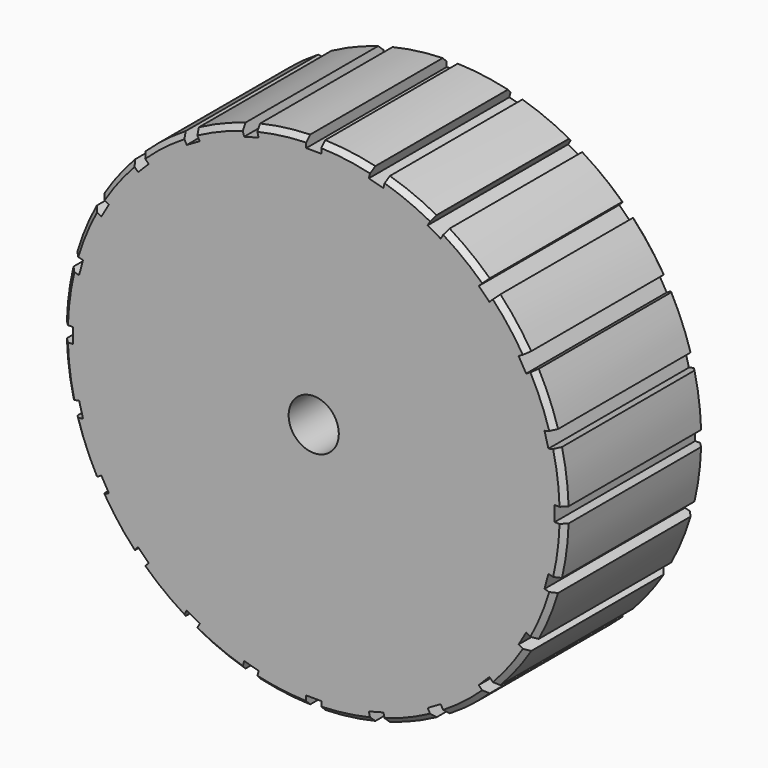
from build123d import *

# Parameters (mm, degrees)
F0_R          = 500
F0_R_2        = 50
F1_DEPTH      = 350
F2_W          = 30
F2_H          = 20
F2_W_2        = 20
F2_H_2        = 30
F4_DEPTH      = 1000
F4_DEPTH_BACK = 350
F6_R          = 100
F6_R_2        = 80
F7_DEPTH      = 20
F8_SIZE       = 10
F9_SIZE       = 10


with BuildPart() as f1:
    # F0 (on Front) → F1 (new body)
    with BuildSketch(Plane.XZ):
        Circle(F0_R)
        Circle(F0_R_2, mode=Mode.SUBTRACT)
    extrude(amount=F1_DEPTH)

    # F2 (on Front) → F4 (cut, two sides)
    with BuildSketch(Plane.XZ) as f4_sk:
        with Locations((0, 490)):
            Rectangle(F2_W, F2_H)
        Polygon((-114.920635, 486.845199), (-143.89841, 479.080627), (-138.722029, 459.762111), (-109.744254, 467.526682), align=None)
        Polygon((-237.009619, 440.512702), (-262.990381, 425.512702), (-252.990381, 408.192194), (-227.009619, 423.192194), align=None)
        Polygon((-342.946789, 364.159992), (-364.159992, 342.946789), (-350.017857, 328.804653), (-328.804653, 350.017857), align=None)
        Polygon((-425.512702, 262.990381), (-440.512702, 237.009619), (-423.192194, 227.009619), (-408.192194, 252.990381), align=None)
        Polygon((-479.080627, 143.89841), (-486.845199, 114.920635), (-467.526682, 109.744254), (-459.762111, 138.722029), align=None)
        with Locations((-490, 0)):
            Rectangle(F2_W_2, F2_H_2)
        Polygon((-486.845199, -114.920635), (-479.080627, -143.89841), (-459.762111, -138.722029), (-467.526682, -109.744254), align=None)
        Polygon((-440.512702, -237.009619), (-425.512702, -262.990381), (-408.192194, -252.990381), (-423.192194, -227.009619), align=None)
        Polygon((-364.159992, -342.946789), (-342.946789, -364.159992), (-328.804653, -350.017857), (-350.017857, -328.804653), align=None)
        Polygon((-262.990381, -425.512702), (-237.009619, -440.512702), (-227.009619, -423.192194), (-252.990381, -408.192194), align=None)
        Polygon((-143.89841, -479.080627), (-114.920635, -486.845199), (-109.744254, -467.526682), (-138.722029, -459.762111), align=None)
        with Locations((0, -490)):
            Rectangle(F2_W, F2_H)
        Polygon((114.920635, -486.845199), (143.89841, -479.080627), (138.722029, -459.762111), (109.744254, -467.526682), align=None)
        Polygon((237.009619, -440.512702), (262.990381, -425.512702), (252.990381, -408.192194), (227.009619, -423.192194), align=None)
        Polygon((342.946789, -364.159992), (364.159992, -342.946789), (350.017857, -328.804653), (328.804653, -350.017857), align=None)
        Polygon((425.512702, -262.990381), (440.512702, -237.009619), (423.192194, -227.009619), (408.192194, -252.990381), align=None)
        Polygon((479.080627, -143.89841), (486.845199, -114.920635), (467.526682, -109.744254), (459.762111, -138.722029), align=None)
        with Locations((490, 0)):
            Rectangle(F2_W_2, F2_H_2)
        Polygon((486.845199, 114.920635), (479.080627, 143.89841), (459.762111, 138.722029), (467.526682, 109.744254), align=None)
        Polygon((440.512702, 237.009619), (425.512702, 262.990381), (408.192194, 252.990381), (423.192194, 227.009619), align=None)
        Polygon((364.159992, 342.946789), (342.946789, 364.159992), (328.804653, 350.017857), (350.017857, 328.804653), align=None)
        Polygon((262.990381, 425.512702), (237.009619, 440.512702), (227.009619, 423.192194), (252.990381, 408.192194), align=None)
        Polygon((143.89841, 479.080627), (114.920635, 486.845199), (109.744254, 467.526682), (138.722029, 459.762111), align=None)
    extrude(amount=F4_DEPTH, mode=Mode.SUBTRACT)
    extrude(f4_sk.sketch, amount=-F4_DEPTH_BACK, mode=Mode.SUBTRACT)

    # F3 (on Top) → F5 (revolve)
    with BuildSketch(Plane.XY):
        with BuildLine():
            Line((-480, 0), (-130, 0))
            ThreePointArc((-130, 0), (-305, 35.421901), (-480, 0))
        make_face()
    revolve(axis=Axis((0, 0, 0), (0, 1, 0)))

    # F6 (on face) → F7 (cut)
    with BuildSketch(Plane(origin=(0, 0, 0), x_dir=(-1, 0, 0), z_dir=(0, 1, 0))):
        Circle(F6_R)
        Circle(F6_R_2, mode=Mode.SUBTRACT)
    extrude(amount=-F7_DEPTH, mode=Mode.SUBTRACT)

    # F8
    f8_edges = [f1.edges().sort_by_distance(p)[0] for p in [
        (495.722431, 0, 65.263096),
        (495.722431, 0, -65.263096),
        (461.939766, 0, -191.341716),
        (396.67667, 0, -304.380715),
        (304.380715, 0, -396.67667),
        (191.341716, 0, -461.939766),
        (65.263096, 0, -495.722431),
        (-65.263096, 0, -495.722431),
        (-191.341716, 0, -461.939766),
        (-304.380715, 0, -396.67667),
        (-396.67667, 0, -304.380715),
        (-461.939766, 0, -191.341716),
        (-495.722431, 0, -65.263096),
        (-495.722431, 0, 65.263096),
        (-461.939766, 0, 191.341716),
        (-396.67667, 0, 304.380715),
        (-304.380715, 0, 396.67667),
        (-191.341716, 0, 461.939766),
        (-65.263096, 0, 495.722431),
        (65.263096, 0, 495.722431),
        (191.341716, 0, 461.939766),
        (304.380715, 0, 396.67667),
        (396.67667, 0, 304.380715),
        (461.939766, 0, 191.341716),
        (495.722431, -350, 65.263096),
        (495.722431, -350, -65.263096),
        (461.939766, -350, -191.341716),
        (396.67667, -350, -304.380715),
        (304.380715, -350, -396.67667),
        (191.341716, -350, -461.939766),
        (65.263096, -350, -495.722431),
        (-65.263096, -350, -495.722431),
        (-191.341716, -350, -461.939766),
        (-304.380715, -350, -396.67667),
        (-396.67667, -350, -304.380715),
        (-461.939766, -350, -191.341716),
        (-495.722431, -350, -65.263096),
        (-495.722431, -350, 65.263096),
        (-461.939766, -350, 191.341716),
        (-396.67667, -350, 304.380715),
        (-304.380715, -350, 396.67667),
        (-191.341716, -350, 461.939766),
        (-65.263096, -350, 495.722431),
        (65.263096, -350, 495.722431),
        (191.341716, -350, 461.939766),
        (304.380715, -350, 396.67667),
        (396.67667, -350, 304.380715),
        (461.939766, -350, 191.341716),
    ]]
    chamfer(f8_edges, length=F8_SIZE)

    # F9
    f9_edges = [f1.edges().sort_by_distance(p)[0] for p in [
        (100, 0, 0),
        (80, 0, 0),
    ]]
    chamfer(f9_edges, length=F9_SIZE)


solid = f1.part
